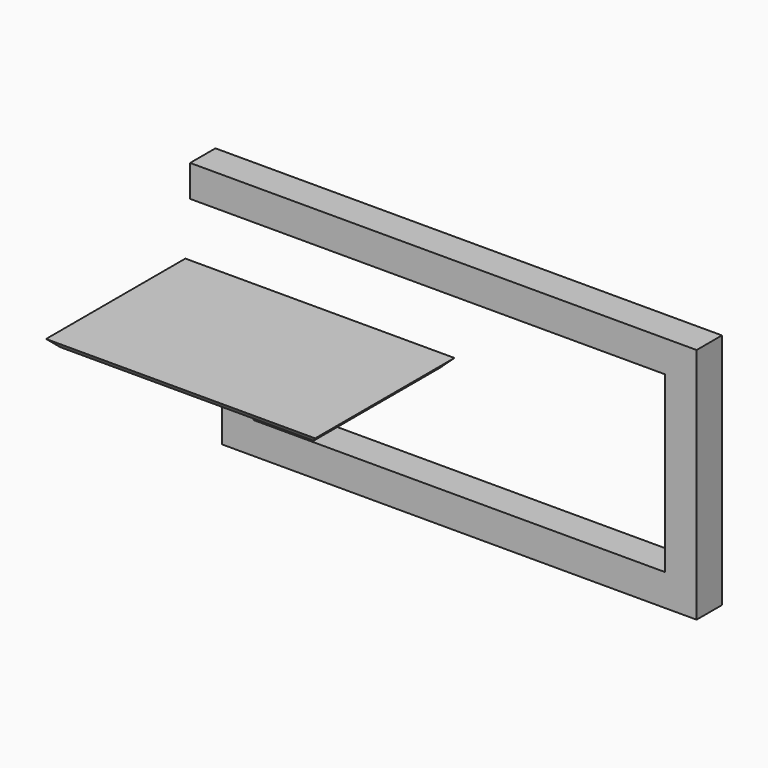
from build123d import *

# Parameters (mm, degrees)
F1_DEPTH = 50.8
F2_W     = 50.8
F2_H     = 50.8
F3_DEPTH = 50.8
F4_W     = 50.8
F4_H     = 50.8
F5_DEPTH = 50.8
F6_W     = 254
F6_H     = 152.4
F6_W_2   = 50.8
F6_H_2   = 50.8
F7_DEPTH = 19.05
F8_W     = 406.4
F8_H     = 254
F9_DEPTH = 12.7
F9_TAPER = -45


with BuildPart() as f1:
    # F0 (on Front) → F1 (new body)
    with BuildSketch(Plane.XZ):
        Polygon((0, -381), (0, 0), (-812.8, 0), (-812.8, -50.8), (-50.8, -50.8), (-50.8, -330.2), (-812.8, -330.2), (-812.8, -381), align=None)
    extrude(amount=F1_DEPTH)

    # F2 (on face) → F3 (cut)
    with BuildSketch(Plane.XZ.offset(50.8)):
        with Locations((-787.4, -355.6)):
            Rectangle(F2_W, F2_H)
    extrude(amount=-F3_DEPTH, mode=Mode.SUBTRACT)

    # F4 (on face) → F5 (join)
    with BuildSketch(Plane.XY.offset(-330.2)):
        with Locations((-736.6, -25.4)):
            Rectangle(F4_W, F4_H)
    extrude(amount=F5_DEPTH)


with BuildPart() as f7:
    # F6 (on face) → F7 (new body)
    with BuildSketch(Plane.XY.offset(-279.4)):
        with Locations((-736.6, -25.4)):
            Rectangle(F6_W, F6_H)
        with Locations((-736.6, -25.4)):
            Rectangle(F6_W_2, F6_H_2, mode=Mode.SUBTRACT)
        with Locations((-736.6, -25.4)):
            Rectangle(F6_W_2, F6_H_2)
    extrude(amount=F7_DEPTH)

    # F8 (on face) → F9 (join)
    with BuildSketch(Plane.XY.offset(-260.35)):
        with Locations((-736.6, -25.4)):
            Rectangle(F8_W, F8_H)
    extrude(amount=F9_DEPTH, taper=F9_TAPER)


solid = Compound([f1.part, f7.part])
